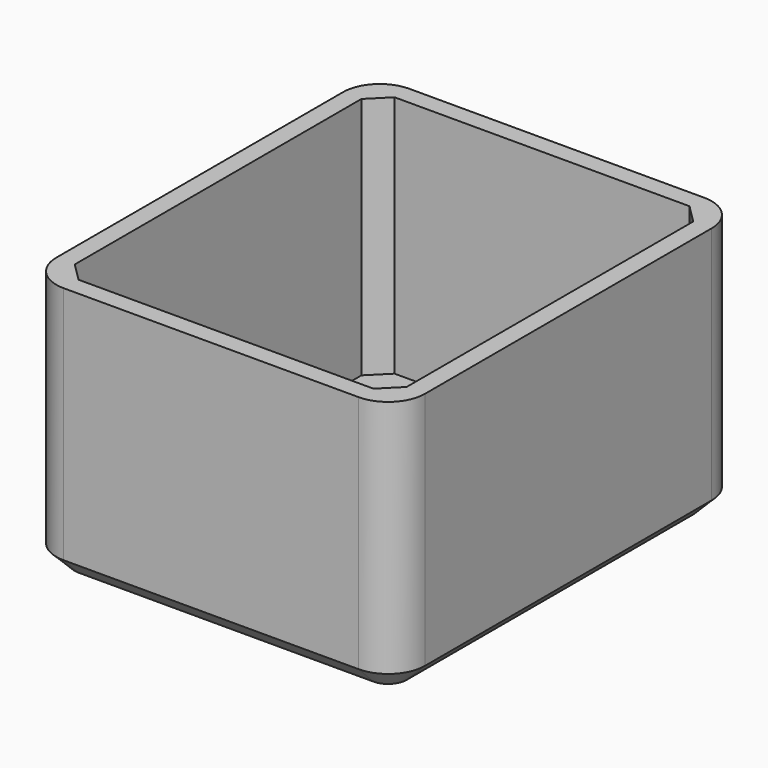
from build123d import *

# Parameters (mm, degrees)
F0_W     = 59.521824
F0_H     = 35.536878
F1_DEPTH = 50.8
F2_W     = 45.72
F2_H     = 54.441824
F3_DEPTH = 33.528
F4_R     = 5.08
F5_R     = 5.08
F6_R     = 5.08
F7_SIZE  = 2.54
F8_SIZE  = 2.54
F9_SIZE  = 2.54


with BuildPart() as f1:
    # F0 (on Right) → F1 (new body)
    with BuildSketch(Plane.YZ):
        with Locations((-0.097901, 17.768439)):
            Rectangle(F0_W, F0_H)
    extrude(amount=F1_DEPTH)

    # F2 (on face) → F3 (cut)
    with BuildSketch(Plane.XY.offset(35.536878)):
        with Locations((25.4, -0.097901)):
            Rectangle(F2_W, F2_H)
    extrude(amount=-F3_DEPTH, mode=Mode.SUBTRACT)

    # F4
    f4_edges = [f1.edges().sort_by_distance(p)[0] for p in [
        (0, 29.663011, 17.768439),
        (0, -29.858813, 17.768439),
    ]]
    fillet(f4_edges, radius=F4_R)

    # F5
    f5_edges = [f1.edges().sort_by_distance(p)[0] for p in [
        (50.8, -29.858813, 17.768439),
    ]]
    fillet(f5_edges, radius=F5_R)

    # F6
    f6_edges = [f1.edges().sort_by_distance(p)[0] for p in [
        (50.8, 29.663011, 17.768439),
    ]]
    fillet(f6_edges, radius=F6_R)

    # F7
    f7_edges = [f1.edges().sort_by_distance(p)[0] for p in [
        (48.26, 27.123011, 18.772878),
        (2.54, 27.123011, 18.772878),
    ]]
    chamfer(f7_edges, length=F7_SIZE)

    # F8
    f8_edges = [f1.edges().sort_by_distance(p)[0] for p in [
        (48.26, -27.318813, 18.772878),
        (2.54, -27.318813, 18.772878),
    ]]
    chamfer(f8_edges, length=F8_SIZE)

    # F9
    f9_edges = [f1.edges().sort_by_distance(p)[0] for p in [
        (50.8, -0.097901, 0),
        (49.312102, 28.175114, 0),
        (49.312102, -28.370915, 0),
        (25.4, 29.663011, 0),
        (25.4, -29.858813, 0),
        (1.487898, 28.175114, 0),
        (1.487898, -28.370915, 0),
        (0, -0.097901, 0),
    ]]
    chamfer(f9_edges, length=F9_SIZE)


solid = f1.part
